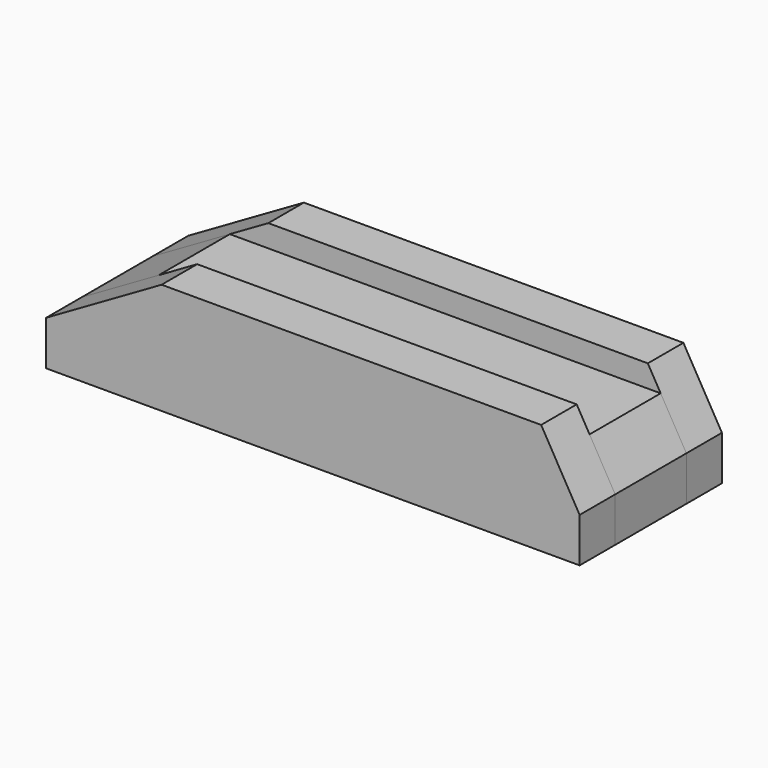
from build123d import *

# Parameters (mm, degrees)
F1_DEPTH = 152.4
F0_W     = 25.4
F0_H     = 25.4
F2_DEPTH = 152.4
F4_DEPTH = 50.801


with BuildPart() as f1:
    # F0 (on Right) → F1 (new body)
    with BuildSketch(Plane.YZ):
        Polygon((0, 31.75), (0, 0), (12.7, 0), (12.7, 25.4), (12.7, 31.75), align=None)
        Polygon((38.1, 25.4), (38.1, 0), (50.8, 0), (50.8, 31.75), (38.1, 31.75), align=None)
    extrude(amount=F1_DEPTH)


with BuildPart() as f2:
    # F0 (on Right) → F2 (new body, through all)
    with BuildSketch(Plane.YZ):
        with Locations((25.4, 12.7)):
            Rectangle(F0_W, F0_H)
    extrude(amount=F2_DEPTH)


with BuildPart() as f4_tool:
    # F3 (on face) → F4 (new body, through all)
    with BuildSketch(Plane.XZ):
        Polygon((141.401477, 31.75), (152.4, 12.7), (152.4, 31.75), align=None)
        Polygon((0, 31.75), (0, 12.7), (32.995568, 31.75), align=None)
    extrude(amount=-F4_DEPTH)


with BuildPart() as f1_1:
    add(f1.part)

    # F4: cut by f4_tool
    add(f4_tool.part, mode=Mode.SUBTRACT)


with BuildPart() as f2_1:
    add(f2.part)

    # F4: cut by f4_tool
    add(f4_tool.part, mode=Mode.SUBTRACT)


solid = Compound([f1_1.part, f2_1.part])
